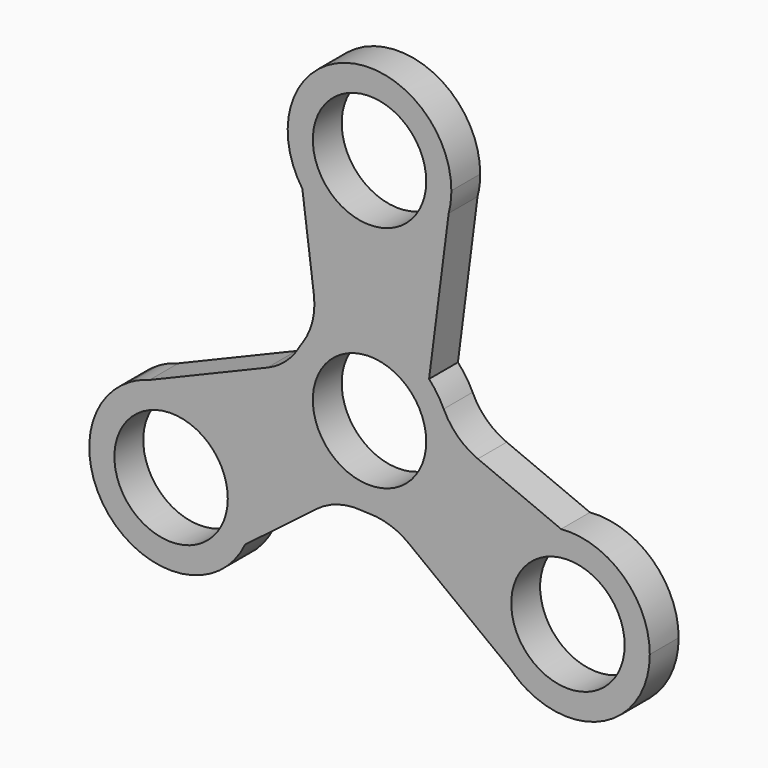
from build123d import *

# Parameters (mm, degrees)
F0_R     = 11
F1_DEPTH = 7


with BuildPart() as f1:
    # F0 (on Front) → F1 (new body)
    with BuildSketch(Plane.XZ):
        with BuildLine():
            ThreePointArc((-10.218251, -18.367249), (-6.0466, -16.265091), (-1.397113, -15.813403))
            ThreePointArc((-1.397113, -15.813403), (-0.720579, -15.858638), (-0.04273, -15.874942))
            ThreePointArc((-0.04273, -15.874942), (4.004964, -16.548747), (7.626532, -18.478019))
            Line((7.626532, -18.478019), (27.331615, -33.512077))
            ThreePointArc((27.331615, -33.512077), (23.570998, -16.812529), (37.162239, -6.406025))
            Line((37.162239, -6.406025), (21.01563, 0.33436))
            ThreePointArc((21.01563, 0.33436), (17.109282, 2.896038), (14.393365, 6.696766))
            ThreePointArc((14.393365, 6.696766), (13.14047, 8.907506), (11.550893, 10.890019))
            Line((11.550893, 10.890019), (15.356507, 40.42591))
            ThreePointArc((15.356507, 40.42591), (2.774582, 28.819347), (-13.033335, 35.386457))
            Line((-13.033335, 35.386457), (-10.797377, 18.03289))
            ThreePointArc((-10.797377, 18.03289), (-11.062681, 13.369055), (-12.996251, 9.116638))
            ThreePointArc((-12.996251, 9.116638), (-13.373693, 8.553359), (-13.726738, 7.974477))
            ThreePointArc((-13.726738, 7.974477), (-16.334117, 4.805974), (-19.8157, 2.634241))
            Line((-19.8157, 2.634241), (-42.688118, -6.913832))
            ThreePointArc((-42.688118, -6.913832), (-28.86552, -9.603907), (-22.619828, -22.225002))
            ThreePointArc((-22.619828, -22.225002), (-23.001689, -25.685967), (-24.128902, -28.980429))
            Line((-24.128902, -28.980429), (-10.218251, -18.367249))
        make_face()
        Circle(F0_R, mode=Mode.SUBTRACT)
        with BuildLine():
            ThreePointArc((-46.432329, -8.476849), (-49.23868, -33.911972), (-24.128902, -28.980429))
            ThreePointArc((-24.128902, -28.980429), (-23.001689, -25.685967), (-22.619828, -22.225002))
            ThreePointArc((-22.619828, -22.225002), (-28.86552, -9.603907), (-42.688118, -6.913832))
            Line((-42.688118, -6.913832), (-46.432329, -8.476849))
        make_face()
        with Locations((-38.494828, -22.225002)):
            Circle(F0_R, mode=Mode.SUBTRACT)
        with BuildLine():
            ThreePointArc((37.162239, -6.406025), (23.570998, -16.812529), (27.331615, -33.512077))
            Line((27.331615, -33.512077), (30.557333, -35.97315))
            ThreePointArc((30.557333, -35.97315), (46.432333, -35.973148), (54.369832, -22.224996))
            ThreePointArc((54.369832, -22.224996), (49.238684, -10.538026), (37.162239, -6.406025))
        make_face()
        with Locations((38.494832, -22.224996)):
            Circle(F0_R, mode=Mode.SUBTRACT)
        with BuildLine():
            Line((30.557333, -35.97315), (27.331615, -33.512077))
            ThreePointArc((27.331615, -33.512077), (28.865525, -34.846092), (30.557333, -35.97315))
        make_face()
        with BuildLine():
            ThreePointArc((-42.688118, -6.913832), (-44.610364, -7.575229), (-46.432329, -8.476849))
            Line((-46.432329, -8.476849), (-42.688118, -6.913832))
        make_face()
        with BuildLine():
            Line((15.875, 44.45), (15.356507, 40.42591))
            ThreePointArc((15.356507, 40.42591), (15.744843, 42.421322), (15.875, 44.45))
        make_face()
        with BuildLine():
            ThreePointArc((-13.033335, 35.386457), (2.774582, 28.819347), (15.356507, 40.42591))
            Line((15.356507, 40.42591), (15.875, 44.45))
            ThreePointArc((15.875, 44.45), (-4.749286, 59.597934), (-13.033335, 35.386457))
        make_face()
        with Locations((0, 44.45)):
            Circle(F0_R, mode=Mode.SUBTRACT)
    extrude(amount=F1_DEPTH)


solid = f1.part
